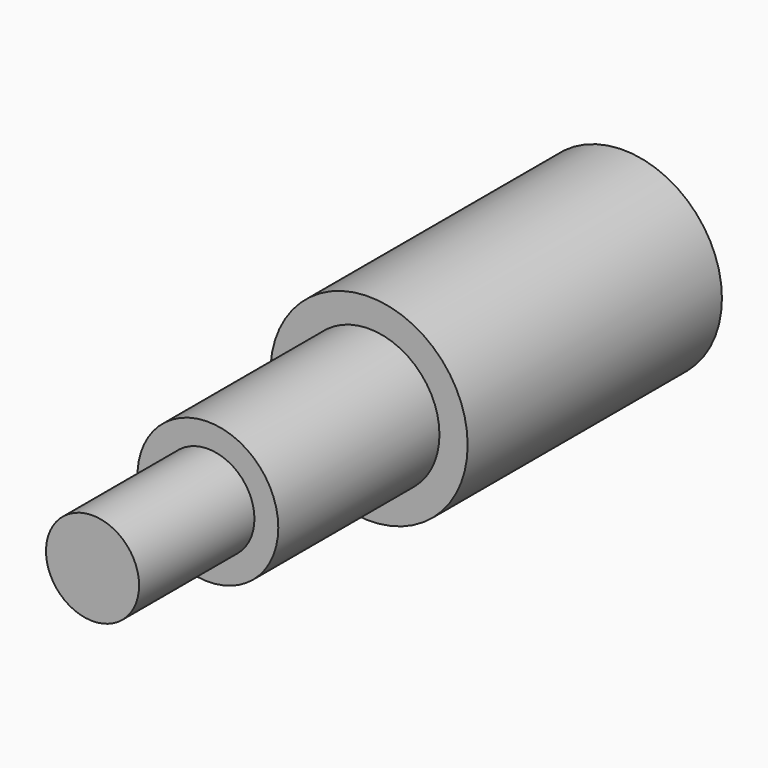
from build123d import *

# Parameters (mm, degrees)
F0_R     = 7.0612
F1_DEPTH = 21.8694
F3_R     = 10.6807
F4_DEPTH = 30.5562
F6_R     = 14.9606
F7_DEPTH = 48.2092


with BuildPart() as f1:
    # F0 (on Front) → F1 (new body)
    with BuildSketch(Plane.XZ):
        Circle(F0_R)
    extrude(amount=-F1_DEPTH)

    # F3 (on offset) → F4 (join)
    with BuildSketch(Plane(origin=(0, 21.8694, 0), x_dir=(1, 0, 0), z_dir=(0, 1, 0))):
        Circle(F3_R)
    extrude(amount=F4_DEPTH)

    # F6 (on offset) → F7 (join)
    with BuildSketch(Plane(origin=(0, 52.4256, 0), x_dir=(1, 0, 0), z_dir=(0, 1, 0))):
        Circle(F6_R)
    extrude(amount=F7_DEPTH)


solid = f1.part
